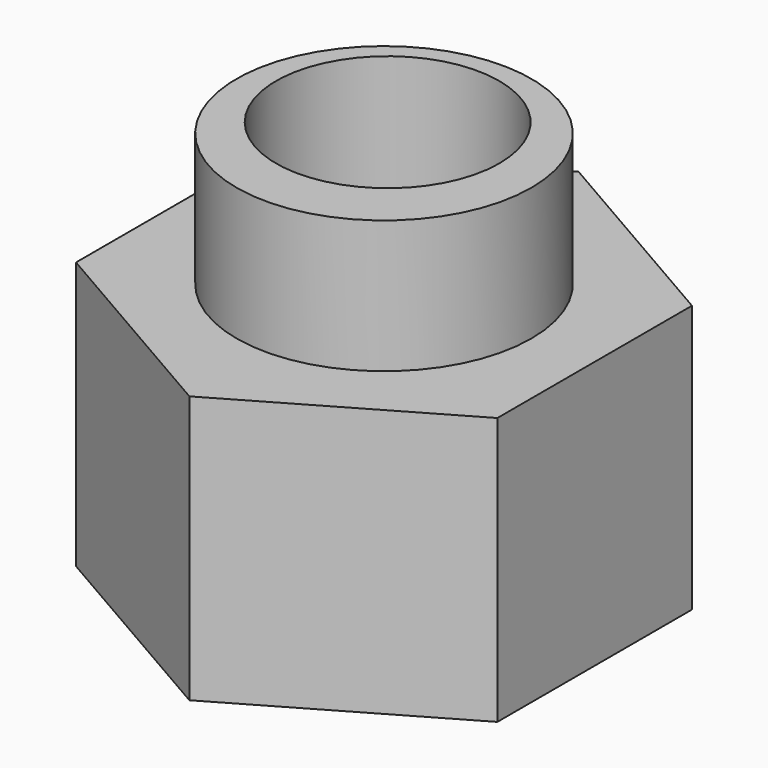
from build123d import *

# Parameters (mm, degrees)
F0_R     = 2.65
F0_R_2   = 3.5
F1_DEPTH = 9.5
F2_DEPTH = 6.35
F3_DEPTH = 9.501


with BuildPart() as f1:
    # F0 (on Top) → F1 (new body)
    with BuildSketch(Plane.XY):
        with Locations((4.775, -2.49704)):
            Circle(F0_R)
        with Locations((5, -2.886751)):
            Circle(F0_R_2)
        with Locations((4.775, -2.49704)):
            Circle(F0_R, mode=Mode.SUBTRACT)
    extrude(amount=F1_DEPTH)

    # F0 (on Top) → F2 (join)
    with BuildSketch(Plane.XY):
        Polygon((1.633975, 0.943376), (0, 0), (0, -5.773503), (5, -8.660254), (10, -5.773503), (10, 0), (5, 2.886751), (3.366025, 1.943376), (3, 0.57735), align=None)
        with Locations((5, -2.886751)):
            Circle(F0_R_2, mode=Mode.SUBTRACT)
    extrude(amount=F2_DEPTH)

    # F0 (on Top) → F3 (cut, through all)
    with BuildSketch(Plane.XY):
        with Locations((4.775, -2.49704)):
            Circle(F0_R)
    extrude(amount=F3_DEPTH, mode=Mode.SUBTRACT)


solid = f1.part
